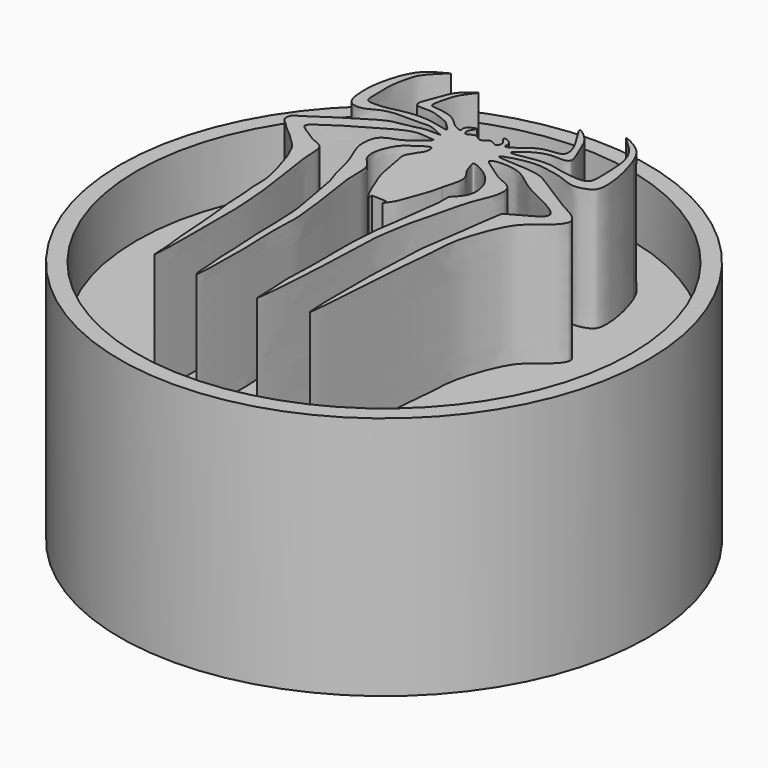
from build123d import *

# Parameters (mm, degrees)
F0_R     = 21.59
F0_R_2   = 20.2213928321
F1_DEPTH = 20
F2_DEPTH = 15
F4_DEPTH = 10


with BuildPart() as f1:
    # F0 (on Top) → F1 (new body)
    with BuildSketch(Plane.XY):
        Circle(F0_R)
        Circle(F0_R_2, mode=Mode.SUBTRACT)
    extrude(amount=F1_DEPTH)

    # F0 (on Top) → F2 (join)
    with BuildSketch(Plane.XY):
        Circle(F0_R_2)
    extrude(amount=F2_DEPTH)


with BuildPart() as f4:
    # F3 (on face) → F4 (new body)
    with BuildSketch(Plane.XY.offset(15)):
        with BuildLine():
            add(Edge.make_bspline(
                [(-3.0646091327, 10.1300096139), (-2.6839459624, 9.7842488918), (-1.900980851, 9.0730727041), (-3.7082513549, 9.6903141034), (-5.6594109523, 9.7361592532), (-7.145914299, 9.2470344788), (-8.4183680808, 9.1895934718), (-8.950772633, 9.3603409292), (-8.8931120886, 10.5004028882), (-9.005557496, 11.7968432532), (-8.7304075504, 13.0197695346), (-8.4765367714, 14.1963855651), (-7.5236137414, 15.0704798187), (-6.9798864424, 15.5692282933)],
                knots=[0, 0, 0, 0, 0.082976097, 0.1706689643, 0.2891238816, 0.3913904756, 0.4807993915, 0.5332054597, 0.6143180613, 0.709226245, 0.7986278149, 0.8850992673, 1, 1, 1, 1], degree=3))
            add(Edge.make_bspline(
                [(-6.9798864424, 15.5692282933), (-7.5532780833, 15.2828885467), (-8.7000501748, 14.7102146417), (-9.4998620444, 12.9453905753), (-9.8894021915, 11.0799472827), (-9.8696537851, 9.6973946996), (-9.6527911479, 8.4045071082), (-8.4791329068, 8.0913561759), (-7.4218432272, 8.8452602414), (-6.2559888946, 9.0653181927), (-5.1849076053, 9.0212089983), (-4.2632666048, 8.995589735), (-3.3341620862, 9.1328111126), (-2.6782721473, 8.6678141987), (-1.8079915194, 8.4381350293), (-3.4987530412, 8.5959411372), (-4.2362793936, 8.2745016734), (-5.3636390027, 8.1361627037), (-6.0704659773, 7.9497526845), (-6.9649853992, 7.4726130293), (-7.6532117747, 7.0233555889), (-8.3945355092, 6.5968681888), (-8.9397255179, 6.2104431262), (-9.8213173577, 5.6569348882), (-10.6634316653, 5.0177599349), (-11.4371876309, 4.6976091331), (-11.4004746929, 3.9107126339), (-10.9481527052, 3.6551703854), (-10.5264993023, 3.133367723), (-9.8443780573, 2.6565133651), (-9.2432989483, 2.004120856), (-8.5542878093, 1.4318144882), (-8.2365797176, 0.6000676508), (-7.9467401427, 0.0381688427), (-7.6635444839, -1.0419027255), (-7.4914452083, -1.4605394204), (-7.2448424445, -2.4666591101), (-7.0683487116, -3.295450389), (-7.0927860287, -4.2734446627), (-7.0456975881, -4.9858615942), (-6.9219942474, -5.8057928955), (-6.92337741, -6.94974161), (-6.8083692317, -7.8879040697), (-6.6595612604, -9.1376208916), (-6.5732193602, -10.2230661823), (-6.4962101584, -11.1822852238), (-6.4306599297, -12.6208265711), (-6.2555836196, -13.8429173005), (-6.1713934735, -14.8669832279), (-6.1289493436, -16.4876464635), (-6.0146376332, -13.786142406), (-6.0015526846, -12.3154704939), (-6.0407719158, -10.6420664239), (-6.0410907419, -8.7631014543), (-6.0043402596, -7.3881287797), (-6.1385121176, -5.978171406), (-6.1768776958, -4.9630162135), (-6.3498884728, -3.9240196795), (-6.4929207082, -2.65956396), (-6.6774420065, -1.5430128352), (-6.7909636052, -0.4473237611), (-7.0631116429, 0.7732475389), (-6.9716904926, 2.6085609631), (-8.122169767, 2.8380485466), (-8.9900863978, 3.510233487), (-10.1229091686, 4.1296087793), (-9.0211649135, 4.8172393306), (-8.2365849992, 5.3964797923), (-7.1637164163, 6.0254765815), (-6.0829583285, 6.6156295898), (-5.2683810263, 7.1295992002), (-4.4055109976, 7.5982542849), (-3.3787513869, 7.9254275287), (-2.5041557723, 7.6989388718), (-1.88917328, 7.7639066401), (-2.8532958733, 6.980180085), (-3.6717530799, 6.3550225528), (-4.3128028992, 6.1883368977), (-5.157342115, 5.7910489569), (-5.3687875922, 4.9194084232), (-5.368274718, 3.9234717915), (-4.7352146296, 2.5867660138), (-4.3407949136, 1.4286519087), (-4.1333406577, 0.1859480159), (-3.7058898931, -0.7440319897), (-3.5610139398, -1.9112996279), (-3.3022854313, -3.1003108326), (-3.1113627285, -4.3915009866), (-2.9690057145, -5.0674439033), (-2.9052515371, -5.9250255794), (-2.8701819797, -6.9637485643), (-2.7990054338, -8.2182979471), (-2.8466977747, -9.3167409829), (-2.7351107309, -10.2514054675), (-2.7128163285, -11.1546105902), (-2.6337385812, -11.8951604119), (-2.6822960545, -12.7701482881), (-2.5658488038, -13.9842031401), (-2.4693246121, -14.6869217334), (-2.4896992627, -15.6514800951), (-2.288130753, -16.6131860227), (-2.1800501205, -14.8477674886), (-2.2212174364, -13.6313098613), (-2.1892519335, -12.4204637296), (-2.1376928844, -11.1571985627), (-2.2231755687, -10.3746106809), (-2.2251165974, -9.3825282828), (-2.2774761501, -8.4337751474), (-2.2046975662, -6.7932954098), (-2.1834231051, -5.9625237527), (-2.3874430046, -4.3597015668), (-2.658169066, -1.8460679722), (-3.1226982085, 0.087447004), (-2.8932466172, 2.2793147591), (-3.9477784067, 2.9185846064), (-4.0793297176, 3.977328714), (-3.8056341702, 4.8457437366), (-3.3594711418, 5.7199404594), (-2.67694182, 6.2159157547), (-1.3186642815, 7.1571991838), (-1.4914872679, 6.0291307058), (-1.7673321735, 5.7841698367), (-2.1055207739, 5.1075766382), (-2.335178495, 4.8103242042), (-2.0562577965, 3.6765162477), (-1.8916499503, 2.5058362153), (-1.6972903956, 1.6579243156), (-1.2393497839, 0.6115874676), (-0.9313955976, -0.2422478125), (-0.4441608758, -1.1433292635), (-0.3744453716, -1.1362821097)],
                knots=[0, 0, 0, 0, 0.0104071579, 0.0208141126, 0.0313310889, 0.0404085975, 0.0486300131, 0.0561416344, 0.064683064, 0.0729722453, 0.0808335992, 0.088187222, 0.0953636259, 0.1024855875, 0.1074168747, 0.1156098918, 0.1231957127, 0.1310435516, 0.1376671092, 0.1452259332, 0.1522671507, 0.1592018822, 0.1654497801, 0.1732003081, 0.1811978078, 0.1878242205, 0.1938015201, 0.1991064261, 0.2052900612, 0.212251825, 0.219456095, 0.2266603667, 0.2336562693, 0.2399287724, 0.2477888382, 0.253127418, 0.2606869222, 0.2679176488, 0.275359305, 0.2817843342, 0.2887064544, 0.2968128673, 0.3043196141, 0.3128494407, 0.3207857092, 0.3282741488, 0.3374058256, 0.345855835, 0.3542093784, 0.3610254485, 0.3712143368, 0.3813966219, 0.391098749, 0.4015451009, 0.4105919078, 0.4195732988, 0.4272412823, 0.4350242707, 0.4436426547, 0.4517770476, 0.4596464022, 0.468430702, 0.4781134173, 0.4855287889, 0.4939203746, 0.501209343, 0.5084935037, 0.5164185821, 0.524879366, 0.5333691866, 0.540830897, 0.5483632596, 0.5562287932, 0.563633878, 0.567869637, 0.5751537957, 0.5833148491, 0.5894791692, 0.5965216782, 0.6034425448, 0.6110159329, 0.6202146749, 0.6287780334, 0.6372318978, 0.6449194079, 0.6530813168, 0.6616587155, 0.6703002588, 0.6766360256, 0.6835582944, 0.6913969243, 0.6999824193, 0.7079893961, 0.7153864499, 0.72259108, 0.7291006383, 0.7363002877, 0.7446538311, 0.751171805, 0.7590104314, 0.7643133822, 0.7726740983, 0.7817959852, 0.7901375294, 0.7986409999, 0.80545707, 0.812844912, 0.8205046265, 0.8301377683, 0.8371453943, 0.8466603366, 0.8588485716, 0.86992518, 0.8806940365, 0.8885236019, 0.8959830723, 0.9033042592, 0.9105932281, 0.9181505003, 0.9263808433, 0.932560989, 0.9376341902, 0.9440330248, 0.9485912056, 0.9565580102, 0.9650425047, 0.9721571483, 0.9800989964, 0.9880731507, 0.9953282495, 0.9953282495, 0.9953282495, 0.9953282495], degree=3))
            Line((-0.3744453716, -1.1362821097), (-0.3744453716, -0.7608397282))
            Line((-0.3744453716, -0.7608397282), (0.8222769829, -0.8077700622))
            Line((0.8222769829, -0.8077700622), (0.8222769829, -1.1597472476))
            add(Edge.make_bspline(
                [(0.8222769829, -1.1597472476), (1.0208309035, -0.8782919287), (1.420277069, -0.3120666556), (1.6864799166, 0.7080095761), (2.1752565536, 1.8110180967), (2.337772167, 2.5558956418), (2.4179073516, 2.9231889639)],
                knots=[0, 0, 0, 0, 0.2408637201, 0.4845640375, 0.7458425371, 1, 1, 1, 1], degree=3))
            add(Edge.make_bspline(
                [(2.4179073516, 2.9231889639), (2.6292971153, 3.6312779308), (2.9847066307, 4.8217875952), (2.2138512233, 5.5705612597), (2.0871238374, 6.1242605637), (1.7101143079, 6.9654103517), (2.8750768819, 6.4019175613), (3.7431194496, 5.7885939112), (4.4845675058, 4.6189515151), (4.5642577337, 3.1506451165), (3.9055984179, 2.4816198672), (3.5759133752, 2.1467462648)],
                knots=[0, 0, 0, 0, 0.1481280405, 0.2490476084, 0.3339105462, 0.4130435093, 0.5121545425, 0.6289377894, 0.7519176324, 0.8758249614, 1, 1, 1, 1], degree=3))
            Line((3.5759133752, 2.1467462648), (3.5722213797, 1.1311086128))
            add(Edge.make_bspline(
                [(3.5722213797, 1.1311086128), (3.5412825748, 0.8732619921), (3.4767878206, 0.335757248), (3.3745665484, -0.6158280242), (3.2525772067, -1.3890119224), (3.1137696917, -2.4784802426), (2.8049871896, -4.071393644), (2.7865660832, -5.3895825391), (2.6263327032, -6.8210149434), (2.7176177061, -8.8197205045), (2.6827349859, -10.7634709586), (2.6249831496, -11.8500942654), (2.595768523, -12.4460427724), (2.5925075804, -13.4692053855), (2.6412187234, -14.4539270144), (2.7360544571, -15.2674127127), (2.72628344, -17.3057888909), (3.0517294659, -14.0885188815), (3.0358540259, -13.0551502287), (3.2755437329, -10.587127632), (3.2521547652, -8.9962871328), (3.4225716992, -6.6763568029), (3.4243104919, -5.0892426117), (3.611115019, -4.0972854935), (3.7956455896, -2.7394108527), (4.0773062238, -1.5059573681), (4.6522800721, 0.5294936506), (4.9970882384, 2.3797570807), (5.8127384167, 3.9819360272), (6.0184205812, 5.6774938129), (4.3158801028, 6.1447320387), (3.426654266, 6.9598692161), (1.8406827472, 7.8381124833), (4.7823998845, 8.0550519771), (6.2737745293, 6.5716028419), (7.9688592521, 5.7499736273), (10.9976135329, 4.2589119299), (8.9560789684, 3.1670493817), (8.1173250525, 2.6983665536), (7.6895523816, 2.4593337439)],
                knots=[0, 0, 0, 0, 0.0200725157, 0.0418429855, 0.0615497743, 0.0849384528, 0.1135270907, 0.1392397056, 0.1658274679, 0.1978089568, 0.2294207587, 0.2522021445, 0.2693171137, 0.2918003558, 0.3137675552, 0.3362781068, 0.3588104145, 0.391103064, 0.4178979485, 0.4517102373, 0.4810102335, 0.5149743279, 0.5431242258, 0.5654696254, 0.5911436933, 0.6166589717, 0.6490243713, 0.6800523206, 0.7103636593, 0.7367509308, 0.7638932112, 0.7906287361, 0.8128377554, 0.8438950403, 0.8767908851, 0.9094625988, 0.9446962744, 0.971794561, 1, 1, 1, 1], degree=3))
            Line((7.6895523816, 2.4593337439), (7.4490667321, 0.9083692566))
            Line((7.4490667321, 0.9083692566), (7.198206149, -0.9939923184))
            add(Edge.make_bspline(
                [(7.198206149, -0.9939923184), (7.1522985432, -1.3401653048), (7.0389207207, -2.1951072829), (6.5923139667, -4.7234001999), (6.6521842986, -6.6517985534), (6.4706707784, -8.4915714031), (6.4958836869, -10.9702416995), (6.4608105615, -12.4815543299), (6.5392392436, -18.0829692453), (7.0625476608, -10.5843934067), (7.2032600588, -7.706572815), (7.5604821933, -4.9700171017), (7.5578266527, -2.9377955252), (8.0163631914, -1.1482657912), (8.7229914822, 0.7520534958), (9.459281676, 1.970540729), (10.3678059537, 2.6586300407), (12.5860274605, 4.4443492716), (10.9433032849, 5.2862747149), (10.1138195023, 5.7113999501)],
                knots=[0, 0, 0, 0, 0.043155417, 0.1065807532, 0.162225258, 0.2163985204, 0.276690624, 0.3331911161, 0.4016192985, 0.4874248315, 0.5635830474, 0.6271122059, 0.6833860716, 0.7373018403, 0.7939580168, 0.8398472445, 0.8843415967, 0.9415989785, 1, 1, 1, 1], degree=3))
            add(Edge.make_bspline(
                [(10.1138195023, 5.7113999501), (8.8591510476, 6.48561015), (7.0841274529, 7.5809125519), (6.5082150764, 8.0074314891), (5.2185677811, 8.381936075), (1.2967294816, 8.3261728393), (4.7917761644, 9.285110261), (6.0130496589, 9.0663510976), (7.543507824, 8.7930255184), (8.6706323796, 8.1776455153), (9.7585642285, 8.4544775622), (10.6163222448, 8.8932646529), (10.3091658311, 11.5436731016), (9.8631069488, 12.8166388344), (9.6478071064, 13.4310629219)],
                knots=[0, 0, 0, 0, 0.1236479883, 0.1749291583, 0.2548177198, 0.3561629674, 0.4488840224, 0.5294274389, 0.6081368779, 0.6810061456, 0.7472922918, 0.804551729, 0.9056627194, 1, 1, 1, 1], degree=3))
            add(Edge.make_bspline(
                [(9.6478071064, 13.4310629219), (9.4338541418, 13.9249247027), (9.0197711636, 14.8807411243), (6.5647939117, 16.0228519142), (9.0065419046, 14.3092289641), (9.3670143122, 12.2576256866), (9.3593198252, 10.848173446), (9.4765797809, 9.2064388139), (8.6013304224, 9.2358743705), (8.1876786426, 9.249785915)],
                knots=[0, 0, 0, 0, 0.150145058, 0.2905896298, 0.441841093, 0.6119931842, 0.7521187419, 0.8828487875, 1, 1, 1, 1], degree=3))
            add(Edge.make_bspline(
                [(8.1876786426, 9.249785915), (7.7828578324, 9.2934431037), (6.9824118952, 9.3797657889), (5.830173857, 9.7351271346), (4.3838654666, 9.6273408854), (2.2497752485, 9.1235342659), (3.8534160331, 10.3796734561), (5.0689785461, 10.812805892), (6.2623517972, 10.6330499935), (6.6977410047, 11.0553873607), (5.9843567801, 12.5415672625), (5.5464804762, 13.8168965087), (3.6978328956, 15.1992829354), (5.5972833178, 12.7402911347), (5.9118619989, 11.1545637143), (4.4945503407, 11.2143993487), (3.4819376971, 10.8132119839), (2.6326308515, 10.0278379619), (1.8578255936, 9.6765987215), (2.1489657166, 10.4765496534), (0.931586014, 10.8750741234), (1.7469636462, 10.1062612873), (1.5969273779, 9.790035995), (1.4418631847, 9.4703109753), (0.7794009867, 10.1401819929), (0.2316205506, 9.2544416249), (-0.3769533472, 10.1306114041), (-1.018754083, 9.4093264937), (-1.2456428666, 9.9496461749), (-1.0957987506, 10.2688376785), (-0.7550679536, 10.7500223457), (-1.3486287073, 10.5184004355), (-1.7224521, 10.1654779231), (-1.4587981738, 9.7263817087), (-2.2608844499, 9.9843743275), (-2.8500943384, 10.7269453296), (-3.7309155631, 11.1339800021), (-4.7903718079, 11.2594840044), (-5.3572554278, 11.296841569), (-4.9458679716, 12.7341732208), (-4.7483392135, 13.5850304267), (-3.4444841592, 15.0175882414), (-5.0155769639, 13.82957428), (-5.3506946949, 13.1266889176), (-5.7944773643, 11.8488044492), (-6.1382970084, 11.0584770916), (-5.838279422, 10.6524962188), (-4.9296267818, 10.7610599836), (-4.0718247942, 10.5654138857), (-3.410657834, 10.2796012938), (-3.0646091327, 10.1300096139)],
                knots=[0, 0, 0, 0, 0.024725918, 0.0488901758, 0.077917155, 0.1042408715, 0.1288915774, 0.1565692046, 0.1801350664, 0.1943671669, 0.2216563624, 0.2506920186, 0.2749559234, 0.3078941396, 0.3342950711, 0.357416096, 0.3813926842, 0.4064082726, 0.4226949901, 0.4391932983, 0.4578536632, 0.4758542927, 0.4890968949, 0.499692521, 0.5179857608, 0.5364490482, 0.5552261823, 0.5732596339, 0.5866161052, 0.6010513211, 0.6146397184, 0.6290749437, 0.6451742885, 0.6568312436, 0.673604457, 0.6962390407, 0.7184545462, 0.7418390375, 0.7555756873, 0.7804481977, 0.8049124695, 0.8282858582, 0.8523260404, 0.8744373579, 0.9004808677, 0.9207833277, 0.9342378917, 0.95495839, 0.9764256359, 1, 1, 1, 1], degree=3))
        make_face()
    extrude(amount=F4_DEPTH)


solid = Compound([f1.part, f4.part])
